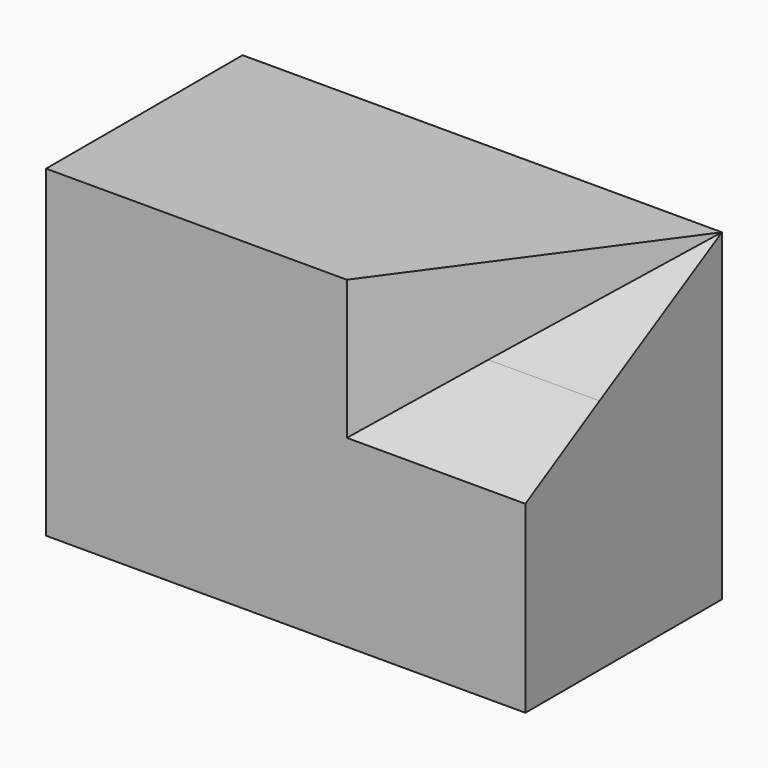
from build123d import *

# Parameters (mm, degrees)
F0_W     = 147.200812
F0_H     = 99.25572
F1_DEPTH = 75.438
F4_DEPTH = 44.704
F6_DEPTH = 65.278


with BuildPart() as f1:
    # F0 (on Front) → F1 (new body)
    with BuildSketch(Plane.XZ):
        with Locations((13.084514, -25.390397)):
            Rectangle(F0_W, F0_H)
    extrude(amount=F1_DEPTH)

    # F2 (on face) → F4 (cut)
    with BuildSketch(Plane.XY.offset(24.237463)):
        Polygon((86.68492, -75.438), (86.68492, 0), (31.858269, -75.438), align=None)
    extrude(amount=-F4_DEPTH, mode=Mode.SUBTRACT)

    # F5 (on face) → F6 (join)
    with BuildSketch(Plane.YZ.offset(86.68492)):
        Polygon((-46.992108, -2.242462), (-75.438, -18.509679), (-75.438, -23.966648), (0, -23.966648), (0, 24.237463), align=None)
    extrude(amount=-F6_DEPTH)


solid = f1.part
